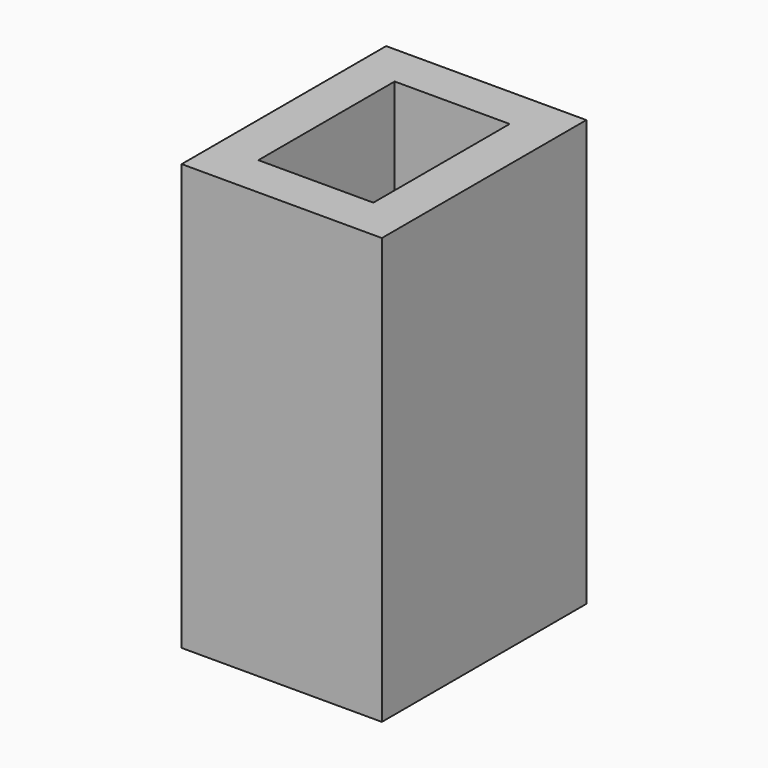
from build123d import *

# Parameters (mm, degrees)
SKETCH_W   = 4.7
SKETCH_H   = 6
SKETCH_W_2 = 2.7
SKETCH_H_2 = 4
PAD_DEPTH  = 10


with BuildPart() as part:
    # Sketch → Pad (new body)
    with BuildSketch(Plane.XY):
        with Locations((1.35, 2)):
            Rectangle(SKETCH_W, SKETCH_H)
        with Locations((1.35, 2)):
            Rectangle(SKETCH_W_2, SKETCH_H_2, mode=Mode.SUBTRACT)
    extrude(amount=PAD_DEPTH)


solid = part.part
